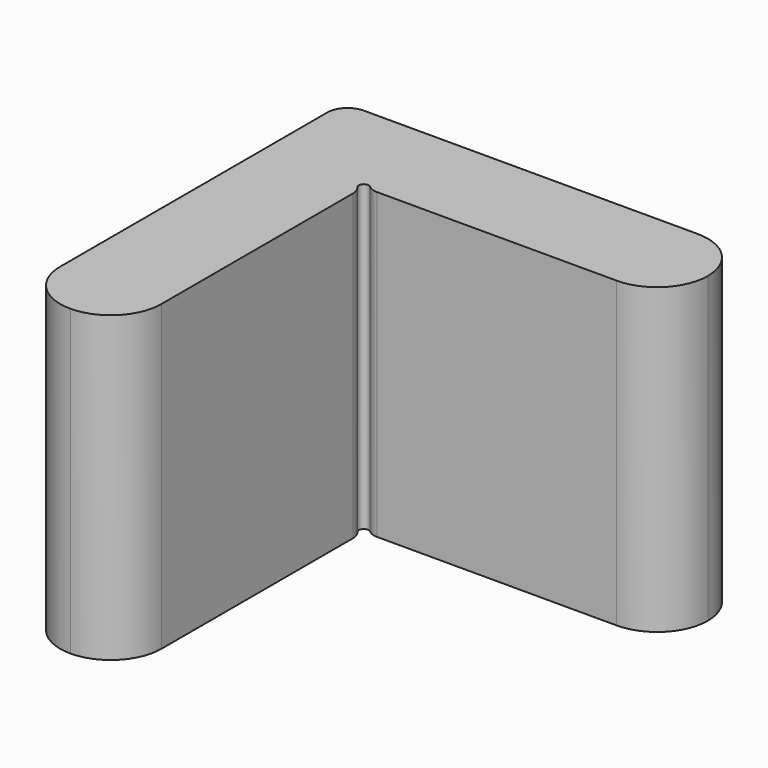
from build123d import *

# Parameters (mm, degrees)
F1_DEPTH = 30
F4_W     = 2.5
F4_H     = 26
F6_R     = 1.5


with BuildPart() as f1:
    # F0 (on Top) → F1 (new body)
    with BuildSketch(Plane.XY):
        with BuildLine():
            Line((15, 20), (-15, 20))
            Line((-15, 20), (-18, 20))
            ThreePointArc((-18, 20), (-19.414214, 19.414214), (-20, 18))
            Line((-20, 18), (-20, 15))
            Line((-20, 15), (-20, -15))
            ThreePointArc((-20, -15), (-18.535534, -18.535534), (-15, -20))
            ThreePointArc((-15, -20), (-11.464466, -18.535534), (-10, -15))
            Line((-10, -15), (-10, 9.5))
            ThreePointArc((-10, 9.5), (-10.353553, 10.353553), (-9.5, 10))
            Line((-9.5, 10), (15, 10))
            ThreePointArc((15, 10), (18.535534, 11.464466), (20, 15))
            ThreePointArc((20, 15), (18.535534, 18.535534), (15, 20))
        make_face()
    extrude(amount=F1_DEPTH)

    # F5: sweep along a path in F2
    with BuildLine(Plane.XY.offset(30)) as f5_path:
        ThreePointArc((-3, 20), (-15.020815, 15.020815), (-20, 3))
    # F4 (on face) → F5 (sweep, cut)
    with BuildSketch(Plane(origin=(0, 3, 0), x_dir=(-1, 0, 0), z_dir=(0, 1, 0))):
        with Locations((21.25, 15)):
            Rectangle(F4_W, F4_H)
    sweep(path=f5_path.line, mode=Mode.SUBTRACT)

    # F6
    f6_edges = [f1.edges().sort_by_distance(p)[0] for p in [
        (-10, 9.5, 15),
        (-9.5, 10, 15),
    ]]
    fillet(f6_edges, radius=F6_R)


solid = f1.part
